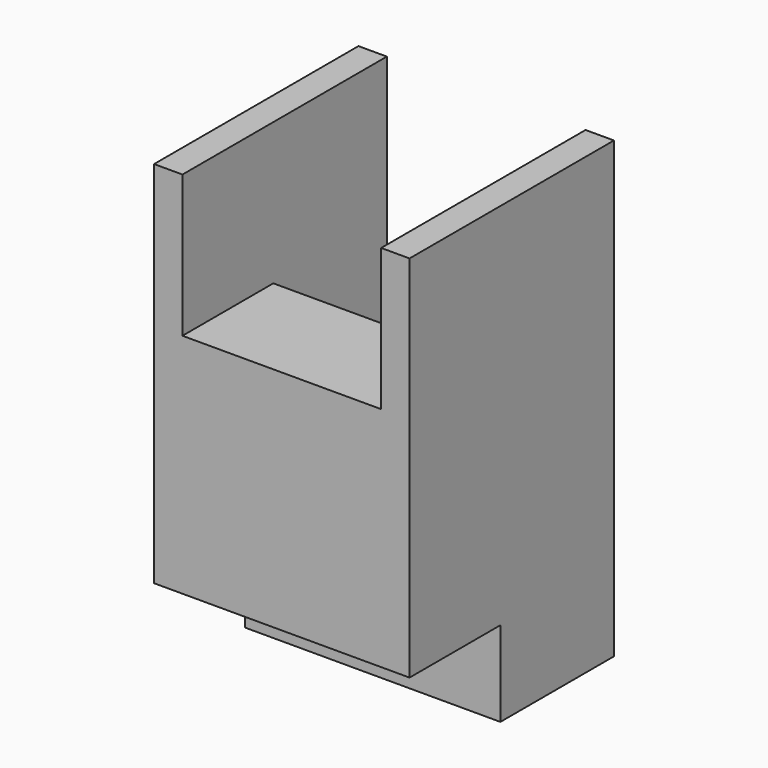
from build123d import *

# Parameters (mm, degrees)
F0_W     = 45
F0_H     = 45
F1_DEPTH = 80
F2_W     = 35
F2_H     = 20
F4_DEPTH = 25
F2_H_2   = 25
F5_DEPTH = 50
F3_W     = 45
F3_H     = 15
F6_DEPTH = 20


with BuildPart() as f1:
    # F0 (on Top) → F1 (new body)
    with BuildSketch(Plane.XY):
        Rectangle(F0_W, F0_H)
    extrude(amount=F1_DEPTH)

    # F2 (on face) → F4 (cut)
    with BuildSketch(Plane.XY.offset(80)):
        with Locations((0, -12.5)):
            Rectangle(F2_W, F2_H)
    extrude(amount=-F4_DEPTH, mode=Mode.SUBTRACT)

    # F2 (on face) → F5 (cut)
    with BuildSketch(Plane.XY.offset(80)):
        with Locations((0, 10)):
            Rectangle(F2_W, F2_H_2)
    extrude(amount=-F5_DEPTH, mode=Mode.SUBTRACT)

    # F3 (on face) → F6 (cut)
    with BuildSketch(Plane.XZ.offset(22.5)):
        with Locations((0, 7.5)):
            Rectangle(F3_W, F3_H)
    extrude(amount=-F6_DEPTH, mode=Mode.SUBTRACT)


solid = f1.part
